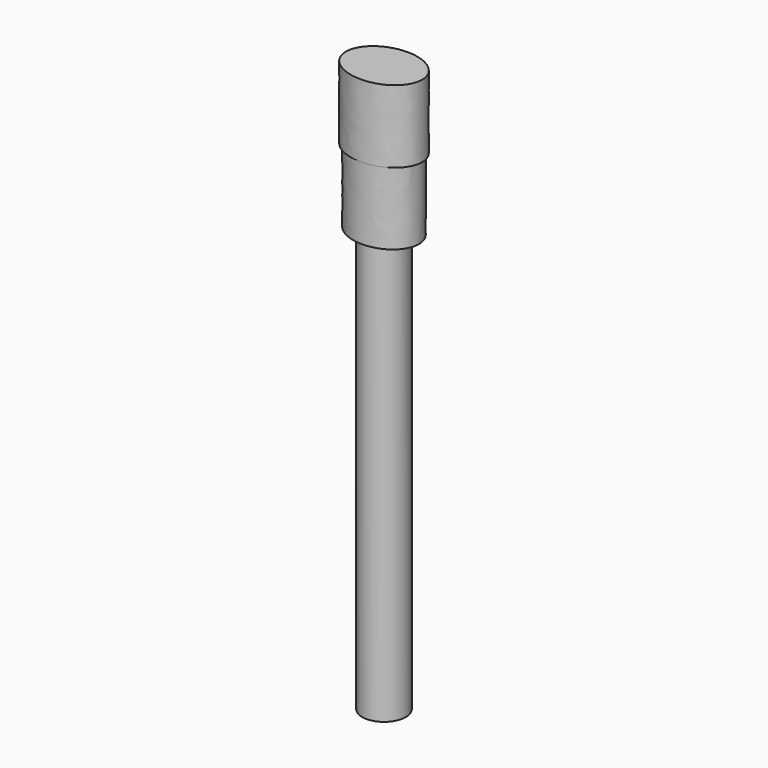
from build123d import *

# Parameters (mm, degrees)
F1_DEPTH = 10
F3_DEPTH = 10
F4_R     = 3
F5_DEPTH = 58


with BuildPart() as f1:
    # F0 (on Top) → F1 (new body)
    with BuildSketch(Plane.XY):
        with BuildLine():
            add(Edge.make_bspline(
                [(4.890497, -0.305017), (5.316376, 6.523316), (-2.23231, 3.566675), (-9.780995, 0.610034), (-2.658188, -3.261658), (4.464619, -7.13335), (4.890497, -0.305017)],
                knots=[0, 0, 0, 2.094395, 2.094395, 4.18879, 4.18879, 6.283185, 6.283185, 6.283185], degree=2, weights=[1, 0.5, 1, 0.5, 1, 0.5, 1]))
        make_face()
    extrude(amount=F1_DEPTH)

    # F2 (on face) → F3 (join)
    with BuildSketch(Plane.XY.offset(10)):
        with BuildLine():
            add(Edge.make_bspline(
                [(5.25, 0), (5.25, 7.014806), (-2.625, 3.507403), (-10.5, 0), (-2.625, -3.507403), (5.25, -7.014806), (5.25, 0)],
                knots=[0, 0, 0, 2.094395, 2.094395, 4.18879, 4.18879, 6.283185, 6.283185, 6.283185], degree=2, weights=[1, 0.5, 1, 0.5, 1, 0.5, 1]))
        make_face()
    extrude(amount=F3_DEPTH)

    # F4 (on face) → F5 (join)
    with BuildSketch(Plane(origin=(0, 0, 0), x_dir=(1, 0, 0), z_dir=(0, 0, -1))):
        Circle(F4_R)
    extrude(amount=F5_DEPTH)


solid = f1.part
